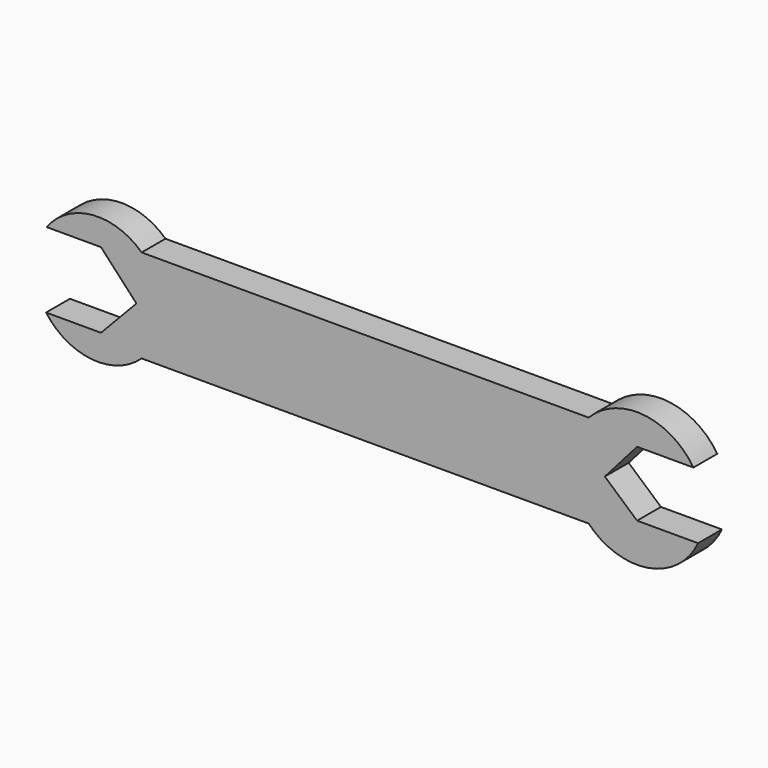
from build123d import *

# Parameters (mm, degrees)
F1_DEPTH = 10


with BuildPart() as f1:
    # F0 (on Front) → F1 (new body)
    with BuildSketch(Plane.XZ):
        with BuildLine():
            Line((0, 12.324698), (18.903854, 12.324698))
            ThreePointArc((18.903854, 12.324698), (2.125217, 22.46636), (-16.257497, 15.650804))
            ThreePointArc((-16.257497, 15.650804), (-22.566654, 0), (-16.257497, -15.650804))
            ThreePointArc((-16.257497, -15.650804), (3.717967, -22.25827), (20.461524, -9.517348))
            Line((20.461524, -9.517348), (0, -9.517348))
            Line((0, -9.517348), (-10.830441, 0))
            Line((-10.830441, 0), (0, 12.324698))
        make_face()
        with BuildLine():
            ThreePointArc((-16.257497, -15.650804), (-22.566654, 0), (-16.257497, 15.650804))
            Line((-16.257497, 15.650804), (-166.257497, 15.650804))
            ThreePointArc((-166.257497, 15.650804), (-159.47109, 0), (-166.257497, -15.650804))
            Line((-166.257497, -15.650804), (-16.257497, -15.650804))
        make_face()
        with BuildLine():
            ThreePointArc((-166.257497, -15.650804), (-159.47109, 0), (-166.257497, 15.650804))
            ThreePointArc((-166.257497, 15.650804), (-182.833974, 21.353747), (-198.125064, 12.781364))
            Line((-198.125064, 12.781364), (-179.891986, 12.781364))
            Line((-179.891986, 12.781364), (-168.017432, 0))
            Line((-168.017432, 0), (-179.891986, -12.513344))
            Line((-179.891986, -12.513344), (-198.32087, -12.513344))
            ThreePointArc((-198.32087, -12.513344), (-182.999211, -21.338224), (-166.257497, -15.650804))
        make_face()
    extrude(amount=F1_DEPTH)


solid = f1.part
